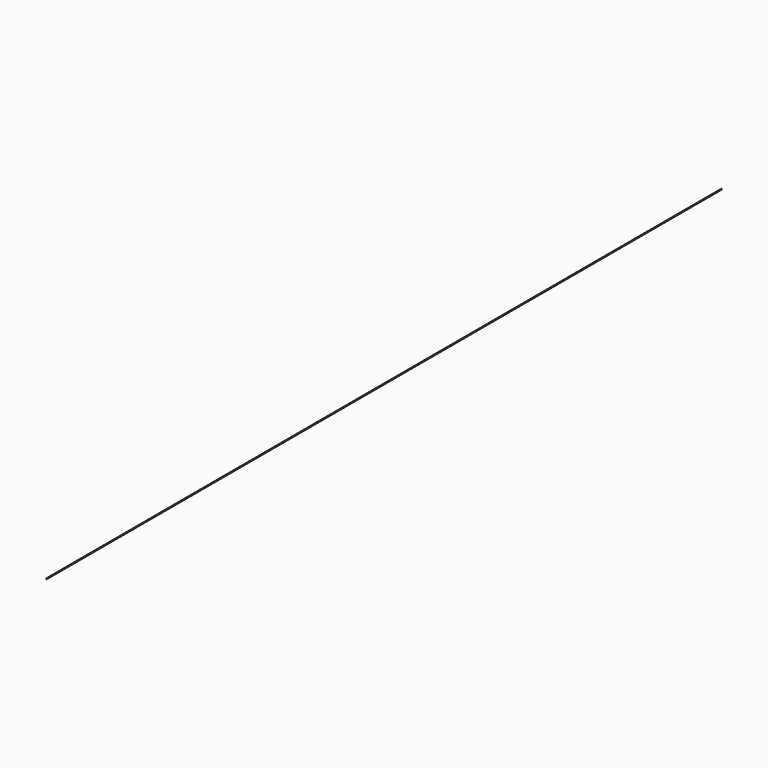
from build123d import *

# Parameters (mm, degrees)
F0_R     = 0.075
F1_DEPTH = 152.4


with BuildPart() as f1:
    # F0 (on Front) → F1 (new body)
    with BuildSketch(Plane.XZ):
        Circle(F0_R)
    extrude(amount=F1_DEPTH)


with BuildPart() as f1_1:
    # F2: moved
    add(f1.part.moved(Location((0, 76.2, 0))))


solid = f1_1.part
